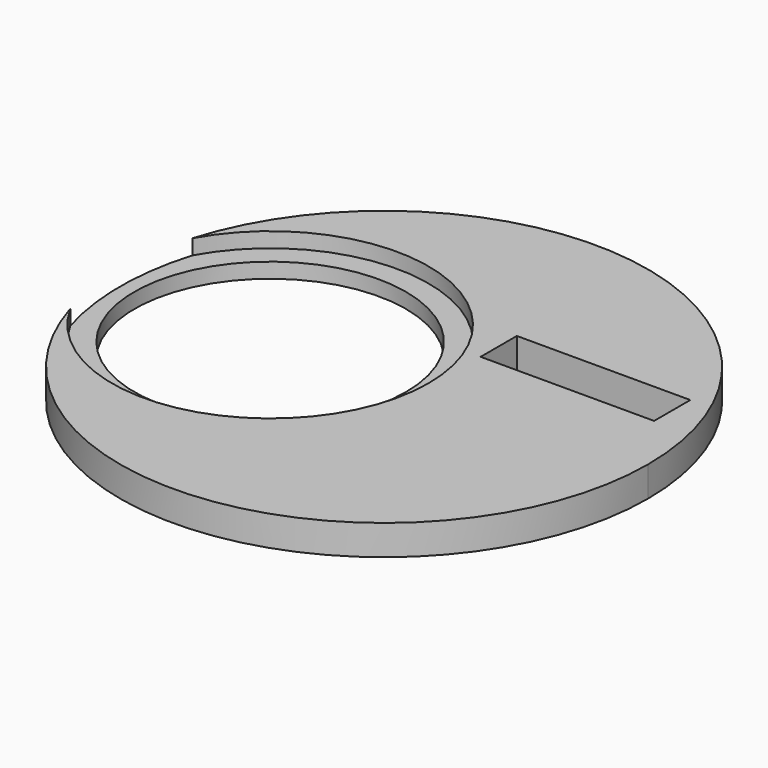
from build123d import *

# Parameters (mm, degrees)
F0_R     = 9
F0_W     = 11.5
F0_H     = 10.5
F1_DEPTH = 2
F2_DEPTH = 1


with BuildPart() as f1:
    # F0 (on Top) → F1 (new body)
    with BuildSketch(Plane.XY):
        with BuildLine():
            ThreePointArc((-16.7551324503, -5.0512905848), (2.5529573164, -17.3127816639), (17.5, 0))
            ThreePointArc((17.5, 0), (2.5529573164, 17.3127816639), (-16.7551324503, 5.0512905848))
            ThreePointArc((-16.7551324503, 5.0512905848), (-4.9426920712, 10.171132944), (2.95, 0))
            ThreePointArc((2.95, 0), (-4.9426920712, -10.171132944), (-16.7551324503, -5.0512905848))
        make_face()
        Polygon((14.7, -6.5), (3.2, -6.5), (3.2, 4), (3.2, 7), (14.7, 7), (14.7, 4), align=None, mode=Mode.SUBTRACT)
        with BuildLine():
            ThreePointArc((-16.7551324503, -5.0512905848), (2.5529573164, -17.3127816639), (17.5, 0))
            ThreePointArc((17.5, 0), (2.5529573164, 17.3127816639), (-16.7551324503, 5.0512905848))
            ThreePointArc((-16.7551324503, 5.0512905848), (-4.9426920712, 10.171132944), (2.95, 0))
            ThreePointArc((2.95, 0), (-4.9426920712, -10.171132944), (-16.7551324503, -5.0512905848))
        make_face()
        Polygon((14.7, -6.5), (3.2, -6.5), (3.2, 4), (3.2, 7), (14.7, 7), (14.7, 4), align=None, mode=Mode.SUBTRACT)
        with BuildLine():
            ThreePointArc((2.95, 0), (-4.9426920712, 10.171132944), (-16.7551324503, 5.0512905848))
            ThreePointArc((-16.7551324503, 5.0512905848), (-17.5, 0), (-16.7551324503, -5.0512905848))
            ThreePointArc((-16.7551324503, -5.0512905848), (-4.9426920712, -10.171132944), (2.95, 0))
        make_face()
        with Locations((-7.55, 0)):
            Circle(F0_R, mode=Mode.SUBTRACT)
        with BuildLine():
            ThreePointArc((2.95, 0), (-4.9426920712, 10.171132944), (-16.7551324503, 5.0512905848))
            ThreePointArc((-16.7551324503, 5.0512905848), (-17.5, 0), (-16.7551324503, -5.0512905848))
            ThreePointArc((-16.7551324503, -5.0512905848), (-4.9426920712, -10.171132944), (2.95, 0))
        make_face()
        with Locations((-7.55, 0)):
            Circle(F0_R, mode=Mode.SUBTRACT)
        with Locations((8.95, -1.25)):
            Rectangle(F0_W, F0_H)
    extrude(amount=-F1_DEPTH)

    # F0 (on Top) → F2 (cut)
    with BuildSketch(Plane.XY):
        with BuildLine():
            ThreePointArc((2.95, 0), (-4.9426920712, 10.171132944), (-16.7551324503, 5.0512905848))
            ThreePointArc((-16.7551324503, 5.0512905848), (-17.5, 0), (-16.7551324503, -5.0512905848))
            ThreePointArc((-16.7551324503, -5.0512905848), (-4.9426920712, -10.171132944), (2.95, 0))
        make_face()
        with Locations((-7.55, 0)):
            Circle(F0_R, mode=Mode.SUBTRACT)
    extrude(amount=-F2_DEPTH, mode=Mode.SUBTRACT)


solid = f1.part
